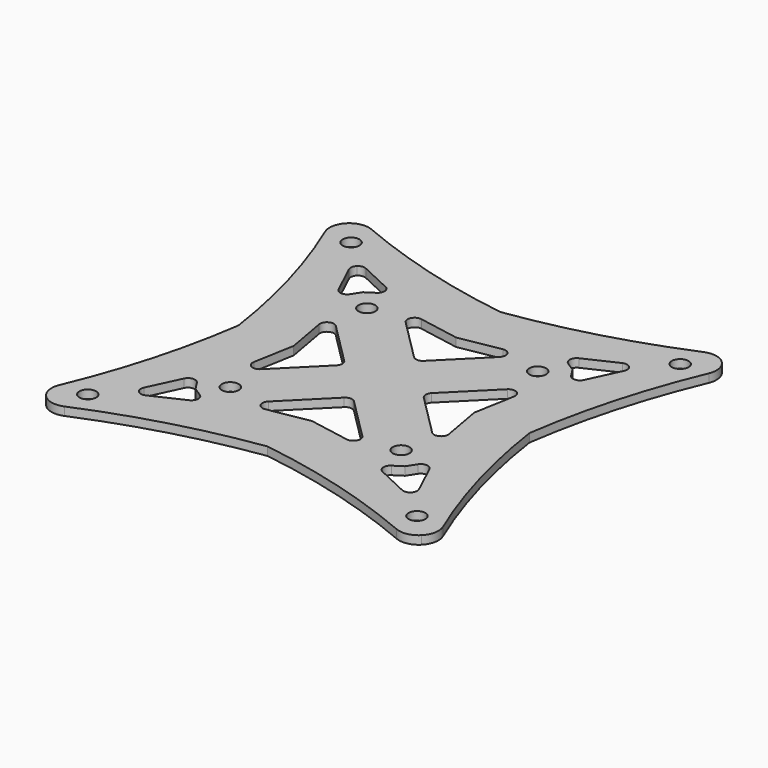
from build123d import *

# Parameters (mm, degrees)
F0_R     = 1.5
F1_DEPTH = 1.5


with BuildPart() as f1:
    # F0 (on Top) → F1 (new body)
    with BuildSketch(Plane.XY):
        with BuildLine():
            ThreePointArc((26, 0), (29.183497, 15.104915), (34.266455, 29.680808))
            ThreePointArc((34.266455, 29.680808), (34.47702, 31.713219), (33.516861, 33.516861))
            ThreePointArc((33.516861, 33.516861), (31.713219, 34.47702), (29.680808, 34.266455))
            ThreePointArc((29.680808, 34.266455), (15.104915, 29.183497), (0, 26))
            ThreePointArc((0, 26), (-15.104915, 29.183497), (-29.680808, 34.266455))
            ThreePointArc((-29.680808, 34.266455), (-31.713219, 34.47702), (-33.516861, 33.516861))
            ThreePointArc((-33.516861, 33.516861), (-34.47702, 31.713219), (-34.266455, 29.680808))
            ThreePointArc((-34.266455, 29.680808), (-29.183497, 15.104915), (-26, 0))
            ThreePointArc((-26, 0), (-29.183497, -15.104915), (-34.266455, -29.680808))
            ThreePointArc((-34.266455, -29.680808), (-34.47702, -31.713219), (-33.516861, -33.516861))
            ThreePointArc((-33.516861, -33.516861), (-31.713219, -34.47702), (-29.680808, -34.266455))
            ThreePointArc((-29.680808, -34.266455), (-15.104915, -29.183497), (0, -26))
            ThreePointArc((0, -26), (15.104915, -29.183497), (29.680808, -34.266455))
            ThreePointArc((29.680808, -34.266455), (31.713219, -34.47702), (33.516861, -33.516861))
            ThreePointArc((33.516861, -33.516861), (34.47702, -31.713219), (34.266455, -29.680808))
            ThreePointArc((34.266455, -29.680808), (29.183497, -15.104915), (26, 0))
        make_face()
        with Locations((-29.392136, -29.392136)):
            Circle(F0_R, mode=Mode.SUBTRACT)
        with BuildLine():
            ThreePointArc((-24.324473, -24.324473), (-24.671832, -23.656327), (-24.572337, -22.909884))
            Line((-24.572337, -22.909884), (-21.918806, -17.251149))
            ThreePointArc((-21.918806, -17.251149), (-20.871666, -16.534722), (-19.73736, -17.103157))
            Line((-19.73736, -17.103157), (-18.702974, -18.702974))
            Line((-18.702974, -18.702974), (-17.103157, -19.73736))
            ThreePointArc((-17.103157, -19.73736), (-16.534722, -20.871666), (-17.251149, -21.918806))
            Line((-17.251149, -21.918806), (-22.909884, -24.572337))
            ThreePointArc((-22.909884, -24.572337), (-23.656327, -24.671832), (-24.324473, -24.324473))
        make_face(mode=Mode.SUBTRACT)
        with Locations((-15.25, -15.25)):
            Circle(F0_R, mode=Mode.SUBTRACT)
        with Locations((29.392136, -29.392136)):
            Circle(F0_R, mode=Mode.SUBTRACT)
        with BuildLine():
            Line((21.918806, -17.251149), (24.572337, -22.909884))
            ThreePointArc((24.572337, -22.909884), (24.671832, -23.656327), (24.324473, -24.324473))
            ThreePointArc((24.324473, -24.324473), (23.656327, -24.671832), (22.909884, -24.572337))
            Line((22.909884, -24.572337), (17.251149, -21.918806))
            ThreePointArc((17.251149, -21.918806), (16.534722, -20.871666), (17.103157, -19.73736))
            Line((17.103157, -19.73736), (18.702974, -18.702974))
            Line((18.702974, -18.702974), (19.73736, -17.103157))
            ThreePointArc((19.73736, -17.103157), (20.871666, -16.534722), (21.918806, -17.251149))
        make_face(mode=Mode.SUBTRACT)
        with BuildLine():
            ThreePointArc((8.383883, -15.31353), (8.608023, -16.776019), (7.279787, -17.427863))
            Line((7.279787, -17.427863), (0, -16.125))
            Line((0, -16.125), (-7.279787, -17.427863))
            ThreePointArc((-7.279787, -17.427863), (-8.608023, -16.776019), (-8.383883, -15.31353))
            Line((-8.383883, -15.31353), (-0.883883, -7.81353))
            ThreePointArc((-0.883883, -7.81353), (0, -7.447413), (0.883883, -7.81353))
            Line((0.883883, -7.81353), (8.383883, -15.31353))
        make_face(mode=Mode.SUBTRACT)
        with Locations((15.25, -15.25)):
            Circle(F0_R, mode=Mode.SUBTRACT)
        with BuildLine():
            Line((-16.125, 0), (-17.427863, 7.279787))
            ThreePointArc((-17.427863, 7.279787), (-16.776019, 8.608023), (-15.31353, 8.383883))
            Line((-15.31353, 8.383883), (-7.81353, 0.883883))
            ThreePointArc((-7.81353, 0.883883), (-7.447413, 0), (-7.81353, -0.883883))
            Line((-7.81353, -0.883883), (-15.31353, -8.383883))
            ThreePointArc((-15.31353, -8.383883), (-16.776019, -8.608023), (-17.427863, -7.279787))
            Line((-17.427863, -7.279787), (-16.125, 0))
        make_face(mode=Mode.SUBTRACT)
        with Locations((-15.25, 15.25)):
            Circle(F0_R, mode=Mode.SUBTRACT)
        with BuildLine():
            ThreePointArc((-17.251149, 21.918806), (-16.534722, 20.871666), (-17.103157, 19.73736))
            Line((-17.103157, 19.73736), (-18.702974, 18.702974))
            Line((-18.702974, 18.702974), (-19.73736, 17.103157))
            ThreePointArc((-19.73736, 17.103157), (-20.871666, 16.534722), (-21.918806, 17.251149))
            Line((-21.918806, 17.251149), (-24.572337, 22.909884))
            ThreePointArc((-24.572337, 22.909884), (-24.671832, 23.656327), (-24.324473, 24.324473))
            ThreePointArc((-24.324473, 24.324473), (-23.656327, 24.671832), (-22.909884, 24.572337))
            Line((-22.909884, 24.572337), (-17.251149, 21.918806))
        make_face(mode=Mode.SUBTRACT)
        with Locations((-29.392136, 29.392136)):
            Circle(F0_R, mode=Mode.SUBTRACT)
        with BuildLine():
            ThreePointArc((7.81353, -0.883883), (7.447413, 0), (7.81353, 0.883883))
            Line((7.81353, 0.883883), (15.31353, 8.383883))
            ThreePointArc((15.31353, 8.383883), (16.776019, 8.608023), (17.427863, 7.279787))
            Line((17.427863, 7.279787), (16.125, 0))
            Line((16.125, 0), (17.427863, -7.279787))
            ThreePointArc((17.427863, -7.279787), (16.776019, -8.608023), (15.31353, -8.383883))
            Line((15.31353, -8.383883), (7.81353, -0.883883))
        make_face(mode=Mode.SUBTRACT)
        with BuildLine():
            Line((-7.279787, 17.427863), (0, 16.125))
            Line((0, 16.125), (7.279787, 17.427863))
            ThreePointArc((7.279787, 17.427863), (8.608023, 16.776019), (8.383883, 15.31353))
            Line((8.383883, 15.31353), (0.883883, 7.81353))
            ThreePointArc((0.883883, 7.81353), (0, 7.447413), (-0.883883, 7.81353))
            Line((-0.883883, 7.81353), (-8.383883, 15.31353))
            ThreePointArc((-8.383883, 15.31353), (-8.608023, 16.776019), (-7.279787, 17.427863))
        make_face(mode=Mode.SUBTRACT)
        with Locations((15.25, 15.25)):
            Circle(F0_R, mode=Mode.SUBTRACT)
        with BuildLine():
            Line((19.73736, 17.103157), (18.702974, 18.702974))
            Line((18.702974, 18.702974), (17.103157, 19.73736))
            ThreePointArc((17.103157, 19.73736), (16.534722, 20.871666), (17.251149, 21.918806))
            Line((17.251149, 21.918806), (22.909884, 24.572337))
            ThreePointArc((22.909884, 24.572337), (23.656327, 24.671832), (24.324473, 24.324473))
            ThreePointArc((24.324473, 24.324473), (24.671832, 23.656327), (24.572337, 22.909884))
            Line((24.572337, 22.909884), (21.918806, 17.251149))
            ThreePointArc((21.918806, 17.251149), (20.871666, 16.534722), (19.73736, 17.103157))
        make_face(mode=Mode.SUBTRACT)
        with Locations((29.392136, 29.392136)):
            Circle(F0_R, mode=Mode.SUBTRACT)
    extrude(amount=F1_DEPTH)


solid = f1.part
